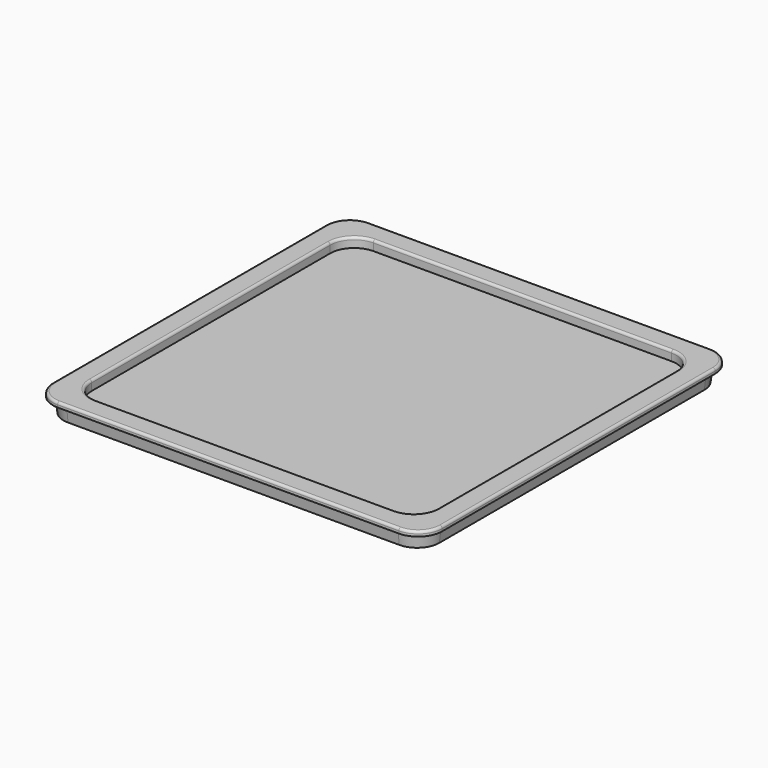
from build123d import *

# Parameters (mm, degrees)
PAD_DEPTH    = 1
PAD001_DEPTH = 3
PAD001_TAPER = 7
POCKET_DEPTH = 2.001
FILLET002_R  = 0.5


with BuildPart() as part:
    # Sketch005 → Pad (new body)
    with BuildSketch(Plane.XY):
        with BuildLine():
            Line((-35.5, 40.5), (35.5, 40.5))
            ThreePointArc((40.5, 35.5), (39.035534, 39.035534), (35.5, 40.5))
            Line((40.5, 35.5), (40.5, -35.5))
            ThreePointArc((35.5, -40.5), (39.035534, -39.035534), (40.5, -35.5))
            Line((35.5, -40.5), (-35.5, -40.5))
            ThreePointArc((-40.5, -35.5), (-39.035534, -39.035534), (-35.5, -40.5))
            Line((-40.5, -35.5), (-40.5, 35.5))
            ThreePointArc((-35.5, 40.5), (-39.035534, 39.035534), (-40.5, 35.5))
        make_face()
    extrude(amount=PAD_DEPTH)

    # Sketch004 → Pad001 (join)
    with BuildSketch(Plane.XY):
        with BuildLine():
            Line((-34.45, 39.45), (34.45, 39.45))
            ThreePointArc((39.45, 34.45), (37.985534, 37.985534), (34.45, 39.45))
            Line((39.45, 34.45), (39.45, -34.45))
            ThreePointArc((34.45, -39.45), (37.985534, -37.985534), (39.45, -34.45))
            Line((34.45, -39.45), (-34.45, -39.45))
            ThreePointArc((-39.45, -34.45), (-37.985534, -37.985534), (-34.45, -39.45))
            Line((-39.45, -34.45), (-39.45, 34.45))
            ThreePointArc((-34.45, 39.45), (-37.985534, 37.985534), (-39.45, 34.45))
        make_face()
    extrude(amount=-PAD001_DEPTH, taper=PAD001_TAPER)

    # Sketch006 → Pocket (cut, through all)
    with BuildSketch(Plane.XY.offset(-1)):
        with BuildLine():
            Line((-31, 36), (31, 36))
            ThreePointArc((36, 31), (34.535534, 34.535534), (31, 36))
            Line((36, 31), (36, -31))
            ThreePointArc((31, -36), (34.535534, -34.535534), (36, -31))
            Line((31, -36), (-31, -36))
            ThreePointArc((-36, -31), (-34.535534, -34.535534), (-31, -36))
            Line((-36, -31), (-36, 31))
            ThreePointArc((-31, 36), (-34.535534, 34.535534), (-36, 31))
        make_face()
    extrude(amount=POCKET_DEPTH, mode=Mode.SUBTRACT)

    # Fillet002
    fillet002_edges = [part.edges().sort_by_distance(p)[0] for p in [
        (0, 36, 1),
        (-34.535534, 34.535534, 1),
        (-36, 0, 1),
        (-34.535534, -34.535534, 1),
        (0, -36, 1),
        (34.535534, -34.535534, 1),
        (36, 0, 1),
        (34.535534, 34.535534, 1),
        (0, 40.5, 1),
        (-39.035534, 39.035534, 1),
        (-40.5, 0, 1),
        (-39.035534, -39.035534, 1),
        (0, -40.5, 1),
        (39.035534, -39.035534, 1),
        (40.5, 0, 1),
        (39.035534, 39.035534, 1),
    ]]
    fillet(fillet002_edges, radius=FILLET002_R)


solid = part.part
